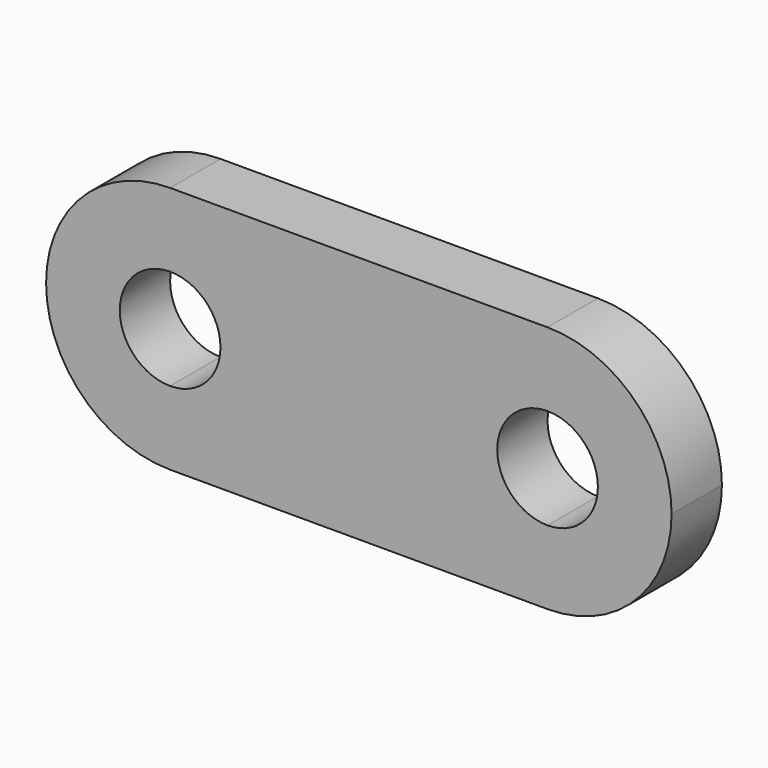
from build123d import *

# Parameters (mm, degrees)
F1_DEPTH = 127


with BuildPart() as f1:
    # F0 (on Front) → F1 (new body)
    with BuildSketch(Plane.XZ):
        with BuildLine():
            ThreePointArc((-130.556, 0), (-203.909349, 177.090651), (-381, 250.444))
            Line((-381, 250.444), (-381, 101.6))
            ThreePointArc((-381, 101.6), (-309.157951, 71.842049), (-279.4, 0))
            ThreePointArc((-279.4, 0), (-309.157951, -71.842049), (-381, -101.6))
            Line((-381, -101.6), (-381, -250.444))
            ThreePointArc((-381, -250.444), (-203.909349, -177.090651), (-130.556, 0))
        make_face()
        with BuildLine():
            Line((-381, 101.6), (-381, 250.444))
            ThreePointArc((-381, 250.444), (-631.444, 0), (-381, -250.444))
            Line((-381, -250.444), (-381, -101.6))
            ThreePointArc((-381, -101.6), (-482.6, 0), (-381, 101.6))
        make_face()
        with BuildLine():
            Line((381, 250.444), (-381, 250.444))
            ThreePointArc((-381, 250.444), (-203.909349, 177.090651), (-130.556, 0))
            ThreePointArc((-130.556, 0), (-203.909349, -177.090651), (-381, -250.444))
            Line((-381, -250.444), (381, -250.444))
            ThreePointArc((381, -250.444), (130.556, 0), (381, 250.444))
        make_face()
        with BuildLine():
            ThreePointArc((631.444, 0), (558.090651, 177.090651), (381, 250.444))
            Line((381, 250.444), (381, 101.6))
            ThreePointArc((381, 101.6), (452.842049, 71.842049), (482.6, 0))
            ThreePointArc((482.6, 0), (452.842049, -71.842049), (381, -101.6))
            Line((381, -101.6), (381, -250.444))
            ThreePointArc((381, -250.444), (558.090651, -177.090651), (631.444, 0))
        make_face()
        with BuildLine():
            Line((381, 101.6), (381, 250.444))
            ThreePointArc((381, 250.444), (130.556, 0), (381, -250.444))
            Line((381, -250.444), (381, -101.6))
            ThreePointArc((381, -101.6), (279.4, 0), (381, 101.6))
        make_face()
    extrude(amount=F1_DEPTH)


solid = f1.part
